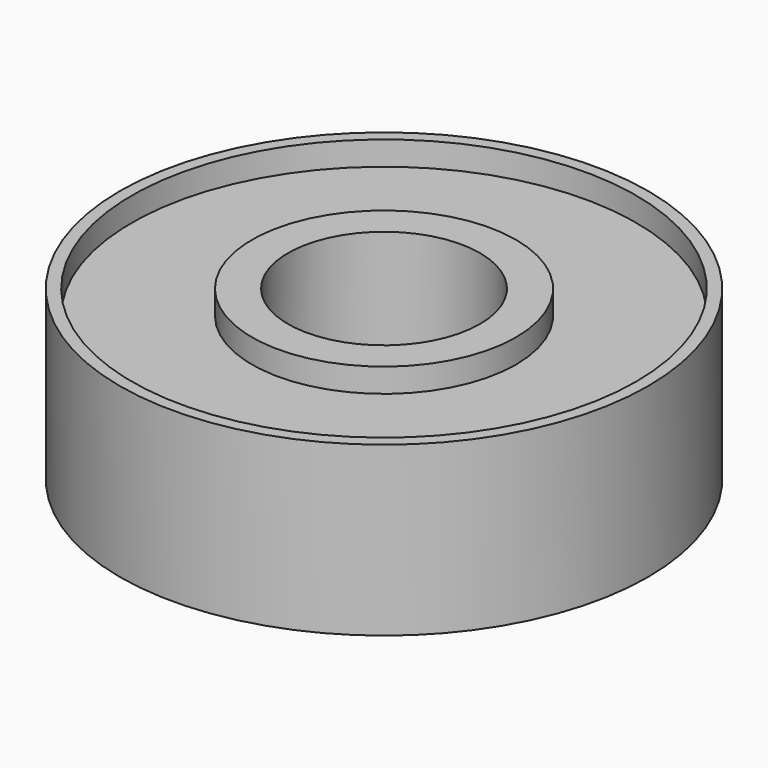
from build123d import *

# Parameters (mm, degrees)
F0_R     = 5.5
F0_R_2   = 4
F1_DEPTH = 7
F0_R_3   = 11
F0_R_4   = 10.5
F2_DEPTH = 5


with BuildPart() as f1:
    # F0 (on Top) → F1 (new body)
    with BuildSketch(Plane.XY):
        Circle(F0_R)
        Circle(F0_R_2, mode=Mode.SUBTRACT)
    extrude(amount=F1_DEPTH)


with BuildPart() as f1b:
    # F0 (on Top) → F1, piece 2 (new body)
    with BuildSketch(Plane.XY):
        Circle(F0_R_3)
        Circle(F0_R_4, mode=Mode.SUBTRACT)
    extrude(amount=F1_DEPTH)


with BuildPart() as f2:
    # F0 (on Top) → F2 (new body)
    with BuildSketch(Plane.XY):
        Circle(F0_R_4)
        Circle(F0_R, mode=Mode.SUBTRACT)
    extrude(amount=F2_DEPTH)


with BuildPart() as f2_1:
    # F3: moved
    add(f2.part.moved(Location((0, 0, 1))))


solid = Compound([f1.part, f1b.part, f2_1.part])
